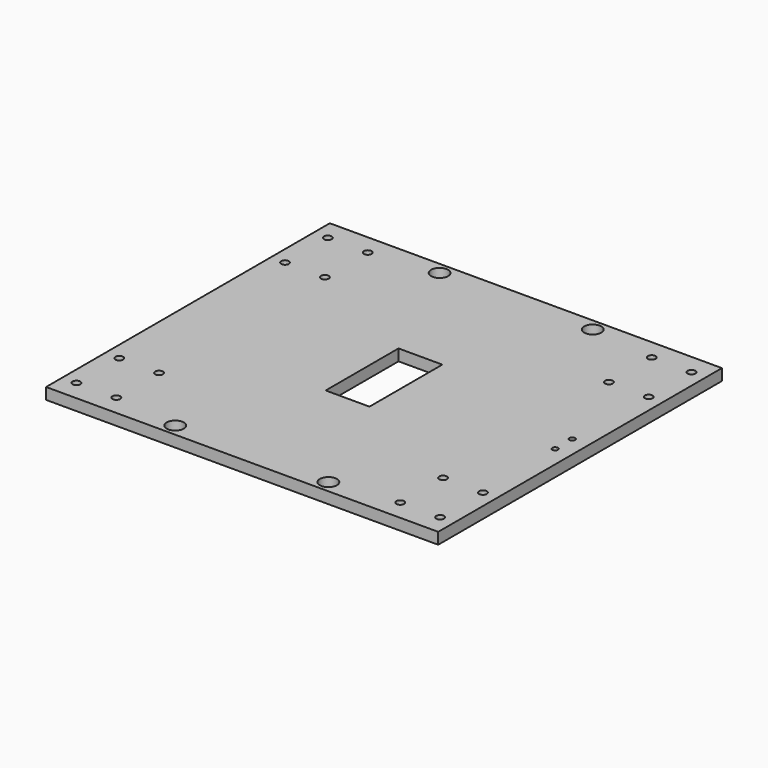
from build123d import *

# Parameters (mm, degrees)
F0_W     = 175.01715
F0_H     = 158.2801
F0_R     = 1.7272
F0_R_2   = 3.81
F0_R_3   = 1.25
F0_W_2   = 19.558
F0_H_2   = 40.64
F1_DEPTH = 5.08


with BuildPart() as f1:
    # F0 (on Top) → F1 (new body)
    with BuildSketch(Plane.XY):
        Rectangle(F0_W, F0_H)
        with Locations((-81.158575, -70.12305)):
            Circle(F0_R, mode=Mode.SUBTRACT)
        with Locations((-63.378575, -70.12305)):
            Circle(F0_R, mode=Mode.SUBTRACT)
        with Locations((-81.158575, -46.24705)):
            Circle(F0_R, mode=Mode.SUBTRACT)
        with Locations((-63.378575, -46.24705)):
            Circle(F0_R, mode=Mode.SUBTRACT)
        with Locations((-34.168575, -73.74255)):
            Circle(F0_R_2, mode=Mode.SUBTRACT)
        with Locations((34.168575, -73.74255)):
            Circle(F0_R_2, mode=Mode.SUBTRACT)
        with Locations((63.378575, -70.12305)):
            Circle(F0_R, mode=Mode.SUBTRACT)
        with Locations((81.158575, -70.12305)):
            Circle(F0_R, mode=Mode.SUBTRACT)
        with Locations((63.378575, -46.24705)):
            Circle(F0_R, mode=Mode.SUBTRACT)
        with Locations((81.158575, -46.24705)):
            Circle(F0_R, mode=Mode.SUBTRACT)
        with Locations((80.208564, -4.750003)):
            Circle(F0_R_3, mode=Mode.SUBTRACT)
        with Locations((-81.158575, 46.24705)):
            Circle(F0_R, mode=Mode.SUBTRACT)
        with Locations((-63.378575, 46.24705)):
            Circle(F0_R, mode=Mode.SUBTRACT)
        with Locations((-81.158575, 70.12305)):
            Circle(F0_R, mode=Mode.SUBTRACT)
        with Locations((-63.378575, 70.12305)):
            Circle(F0_R, mode=Mode.SUBTRACT)
        with Locations((-34.168575, 73.74255)):
            Circle(F0_R_2, mode=Mode.SUBTRACT)
        Rectangle(F0_W_2, F0_H_2, mode=Mode.SUBTRACT)
        with Locations((80.208564, 4.750003)):
            Circle(F0_R_3, mode=Mode.SUBTRACT)
        with Locations((34.168575, 73.74255)):
            Circle(F0_R_2, mode=Mode.SUBTRACT)
        with Locations((63.378575, 46.24705)):
            Circle(F0_R, mode=Mode.SUBTRACT)
        with Locations((81.158575, 46.24705)):
            Circle(F0_R, mode=Mode.SUBTRACT)
        with Locations((63.378575, 70.12305)):
            Circle(F0_R, mode=Mode.SUBTRACT)
        with Locations((81.158575, 70.12305)):
            Circle(F0_R, mode=Mode.SUBTRACT)
    extrude(amount=F1_DEPTH)


solid = f1.part
